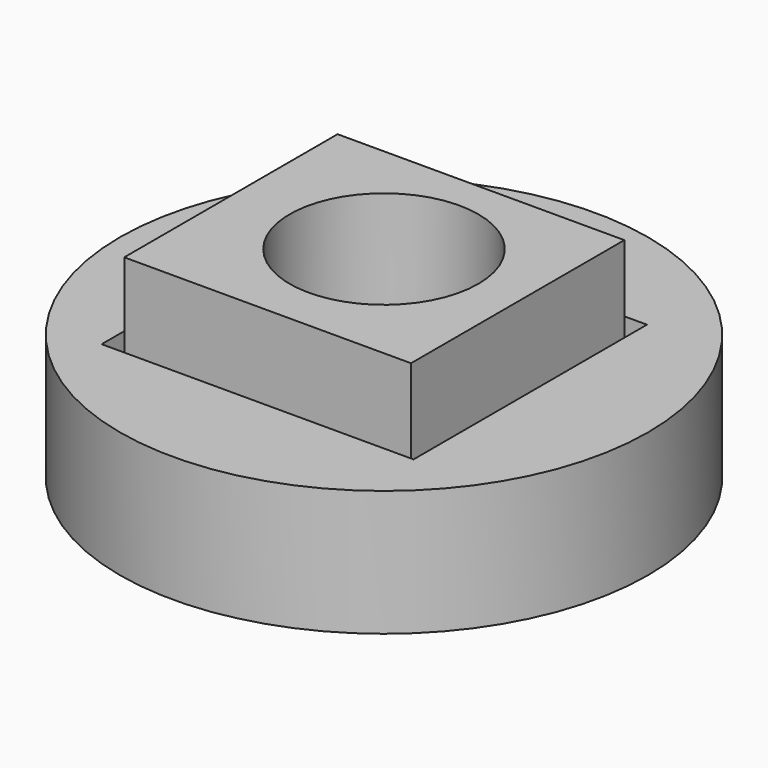
from build123d import *

# Parameters (mm, degrees)
F0_W     = 11.4
F0_H     = 10.6
F0_R     = 3.75
F1_DEPTH = 8
F2_R     = 10.5
F2_W     = 12.4
F2_H     = 11.6
F3_DEPTH = 5


with BuildPart() as f1:
    # F0 (on Top) → F1 (new body)
    with BuildSketch(Plane.XY):
        with Locations((-0.25, -0.17)):
            Rectangle(F0_W, F0_H)
        Circle(F0_R, mode=Mode.SUBTRACT)
    extrude(amount=F1_DEPTH)


with BuildPart() as f3:
    # F2 (on Top) → F3 (new body)
    with BuildSketch(Plane.XY):
        Circle(F2_R)
        with Locations((-0.25, -0.17)):
            Rectangle(F2_W, F2_H, mode=Mode.SUBTRACT)
    extrude(amount=F3_DEPTH)


solid = Compound([f1.part, f3.part])
